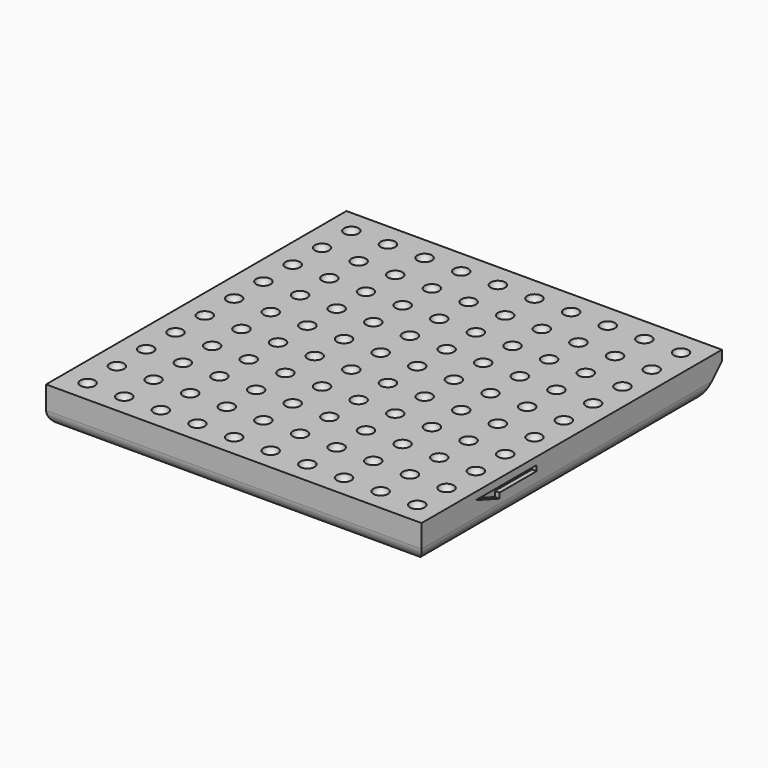
from build123d import *

# Parameters (mm, degrees)
ARRAY_X_COUNT   = 10
ARRAY_X_PITCH   = 4
ARRAY_Y_COUNT   = 10
ARRAY_Y_PITCH   = 4
SKETCH001_W     = 41
SKETCH001_H     = 41
PAD_DEPTH       = 4
FILLET_R        = 1.5
POCKET_DEPTH    = 0.5
POCKET001_DEPTH = 0.5
POCKET002_DEPTH = 0.5
POCKET003_DEPTH = 45


with BuildPart() as array:
    # Sphere → Sphere (revolve)
    with BuildSketch(Plane(origin=(4.114748, 38.898247, 4.121225), x_dir=(1, 0, 0), z_dir=(0, -1, 0))):
        with BuildLine():
            ThreePointArc((0, -0.8), (0.8, 0), (0, 0.8))
            Line((0, 0.8), (0, -0.8))
        make_face()
    revolve(axis=Axis((4.114748, 38.898247, 4.121225), (0, 0, 1)))

    # Array X: Array ×10


with BuildPart() as array_1:
    add(array.part)
    with Locations(*[(i * ARRAY_X_PITCH, 0, 0) for i in range(1, ARRAY_X_COUNT)]):
        add(array.part)

    # Array Y: Array ×10


with BuildPart() as array_2:
    add(array_1.part)
    with Locations(*[(0, i * ARRAY_Y_PITCH, 0) for i in range(1, ARRAY_Y_COUNT)]):
        add(array_1.part)


with BuildPart() as array_3:
    # Array placement: moved
    add(array_2.part.moved(Location((-1.5, -36.5, 0))))


with BuildPart() as pocket003:
    # Sketch001 → Pad (new body)
    with BuildSketch(Plane.XY):
        with Locations((20.5, 20.5)):
            Rectangle(SKETCH001_W, SKETCH001_H)
    extrude(amount=PAD_DEPTH)

    # Cut: cut Array
    add(array_3.part, mode=Mode.SUBTRACT)

    # Fillet
    fillet_edges = [pocket003.edges().sort_by_distance(p)[0] for p in [
        (20.5, 0, 0),
        (0, 20.5, 0),
        (41, 20.5, 0),
        (20.5, 41, 0),
    ]]
    fillet(fillet_edges, radius=FILLET_R)

    # Sketch → Pocket (cut)
    with BuildSketch(Plane(origin=(0, 0, 0), x_dir=(1, 0, 0), z_dir=(0, 0, -1))):
        Polygon((22.5, -6), (15.533523, -11.13014), (20.076508, -11.13014), (20.076508, -16.13014), (24.923492, -16.13014), (24.923492, -11.13014), (29.466477, -11.13014), align=None)
    extrude(amount=-POCKET_DEPTH, mode=Mode.SUBTRACT)

    # Sketch002 → Pocket001 (cut)
    with BuildSketch(Plane(origin=(0, 0, 0), x_dir=(0, -1, 0), z_dir=(-1, 0, 0))):
        Polygon((-16.658382, 3.175023), (-8.351315, 3.175023), (-11.597938, 2.002335), (-11.597938, 2.582233), (-16.658382, 2.582233), align=None)
    extrude(amount=-POCKET001_DEPTH, mode=Mode.SUBTRACT)

    # Sketch003 → Pocket002 (cut)
    with BuildSketch(Plane.YZ.offset(41)):
        Polygon((15.700849, 2.602236), (15.700849, 3.195026), (7.393779, 3.195026), (10.640399, 2.022338), (10.640399, 2.602236), align=None)
    extrude(amount=-POCKET002_DEPTH, mode=Mode.SUBTRACT)

    # Sketch004 → Pocket003 (cut)
    with BuildSketch(Plane.YZ.offset(41)):
        Polygon((41.513626, 3.426087), (37.621222, -0.466317), (41.513626, -0.466317), align=None)
    extrude(amount=-POCKET003_DEPTH, mode=Mode.SUBTRACT)


solid = pocket003.part
